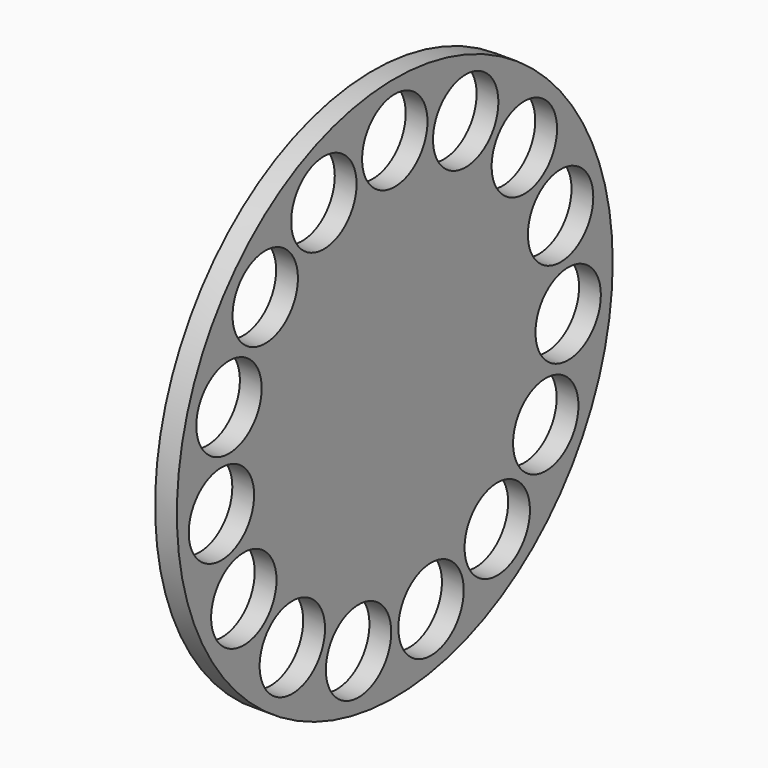
from build123d import *

# Parameters (mm, degrees)
F0_R     = 63.5
F0_R_2   = 9.525
F1_DEPTH = 5.08


with BuildPart() as f1:
    # F0 (on Right) → F1 (new body)
    with BuildSketch(Plane.YZ):
        Circle(F0_R)
        with Locations((-10.561914, -49.689898)):
            Circle(F0_R_2, mode=Mode.SUBTRACT)
        with Locations((-29.859491, -41.098063)):
            Circle(F0_R_2, mode=Mode.SUBTRACT)
        with Locations((-43.994091, -25.4)):
            Circle(F0_R_2, mode=Mode.SUBTRACT)
        with Locations((-50.521712, -5.310046)):
            Circle(F0_R_2, mode=Mode.SUBTRACT)
        with Locations((10.561914, -49.689898)):
            Circle(F0_R_2, mode=Mode.SUBTRACT)
        with Locations((29.859491, -41.098063)):
            Circle(F0_R_2, mode=Mode.SUBTRACT)
        with Locations((43.994091, -25.4)):
            Circle(F0_R_2, mode=Mode.SUBTRACT)
        with Locations((50.521712, -5.310046)):
            Circle(F0_R_2, mode=Mode.SUBTRACT)
        with Locations((-48.313671, 15.698063)):
            Circle(F0_R_2, mode=Mode.SUBTRACT)
        with Locations((-37.751757, 33.991835)):
            Circle(F0_R_2, mode=Mode.SUBTRACT)
        with Locations((-20.662221, 46.408109)):
            Circle(F0_R_2, mode=Mode.SUBTRACT)
        with Locations((48.313671, 15.698063)):
            Circle(F0_R_2, mode=Mode.SUBTRACT)
        with Locations((20.662221, 46.408109)):
            Circle(F0_R_2, mode=Mode.SUBTRACT)
        with Locations((0, 50.8)):
            Circle(F0_R_2, mode=Mode.SUBTRACT)
        with Locations((37.751757, 33.991835)):
            Circle(F0_R_2, mode=Mode.SUBTRACT)
    extrude(amount=F1_DEPTH)


solid = f1.part
